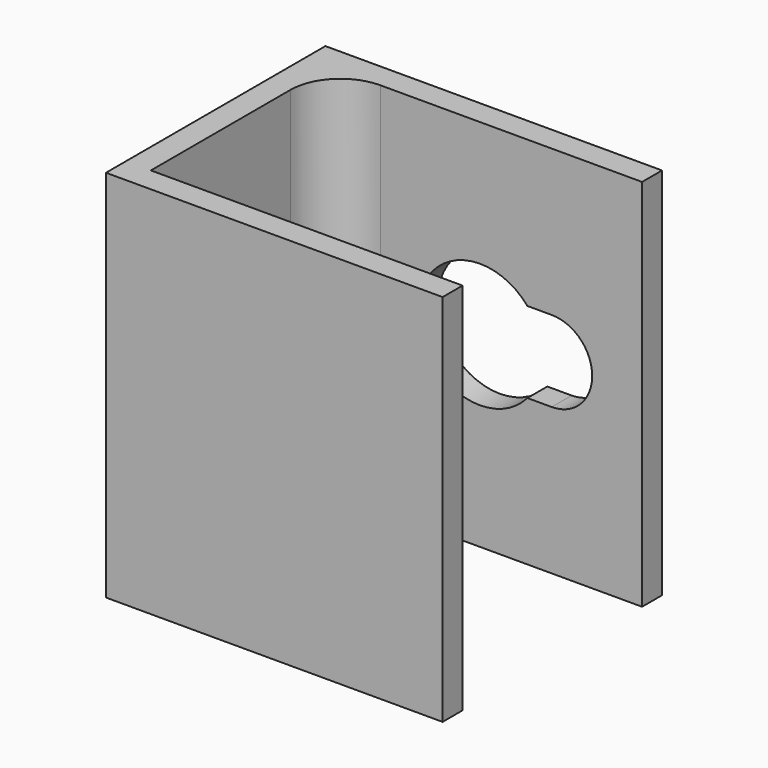
from build123d import *

# Parameters (mm, degrees)
F1_DEPTH = 30
F3_DEPTH = 2


with BuildPart() as f1:
    # F0 (on Top) → F1 (new body)
    with BuildSketch(Plane.XY):
        with BuildLine():
            Line((-13.5, -11), (13.5, -11))
            Line((13.5, -11), (13.5, -9))
            Line((13.5, -9), (-11.5, -9))
            Line((-11.5, -9), (-11.5, 5))
            ThreePointArc((-11.5, 5), (-10.328427, 7.828427), (-7.5, 9))
            Line((-7.5, 9), (13.5, 9))
            Line((13.5, 9), (13.5, 11))
            Line((13.5, 11), (-13.5, 11))
            Line((-13.5, 11), (-13.5, -11))
        make_face()
    extrude(amount=F1_DEPTH)

    # F2 (on face) → F3 (cut, through all)
    with BuildSketch(Plane(origin=(0, 11, 0), x_dir=(-1, 0, 0), z_dir=(0, 1, 0))):
        with BuildLine():
            Line((-6.25, 11.75), (-4.299671, 11.75))
            Line((-4.299671, 11.75), (-0.5, 11.75))
            Line((-0.5, 11.75), (-0.5, 18.25))
            Line((-0.5, 18.25), (-4.299671, 18.25))
            Line((-4.299671, 18.25), (-6.25, 18.25))
            ThreePointArc((-6.25, 18.25), (-9.5, 15), (-6.25, 11.75))
        make_face()
        with BuildLine():
            Line((-0.5, 11.75), (-4.299671, 11.75))
            ThreePointArc((-4.299671, 11.75), (4.5, 15), (-4.299671, 18.25))
            Line((-4.299671, 18.25), (-0.5, 18.25))
            Line((-0.5, 18.25), (-0.5, 11.75))
        make_face()
    extrude(amount=-F3_DEPTH, mode=Mode.SUBTRACT)


solid = f1.part
